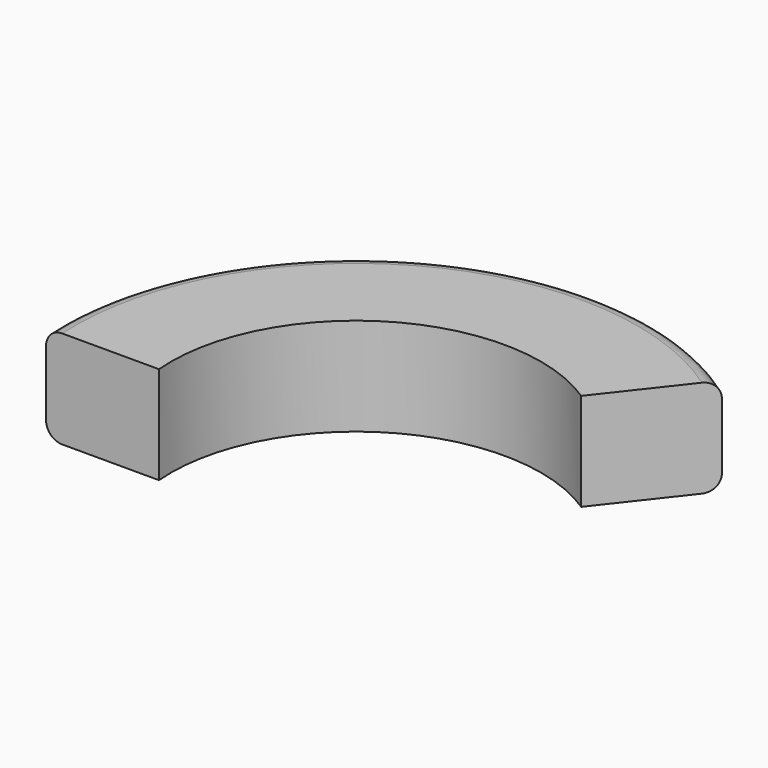
from build123d import *


with BuildPart() as f2:
    # F2: sweep along a path in F1
    with BuildLine(Plane.XY) as f2_path:
        ThreePointArc((69.70714, 53.368706), (8.386043, 54.585932), (-19.580629, 0))
    # F0 (on Front) → F2 (sweep)
    with BuildSketch(Plane.XZ):
        with BuildLine():
            Line((-19.510009, 0), (-49.763733, 0))
            ThreePointArc((-49.763733, 0), (-53.299267, -1.464466), (-54.763733, -5))
            Line((-54.763733, -5), (-54.763733, -25.508031))
            ThreePointArc((-54.763733, -25.508031), (-53.299267, -29.043565), (-49.763733, -30.508031))
            Line((-49.763733, -30.508031), (-19.510009, -30.508031))
            Line((-19.510009, -30.508031), (-19.510009, 0))
        make_face()
    sweep(path=f2_path.line)


solid = f2.part
